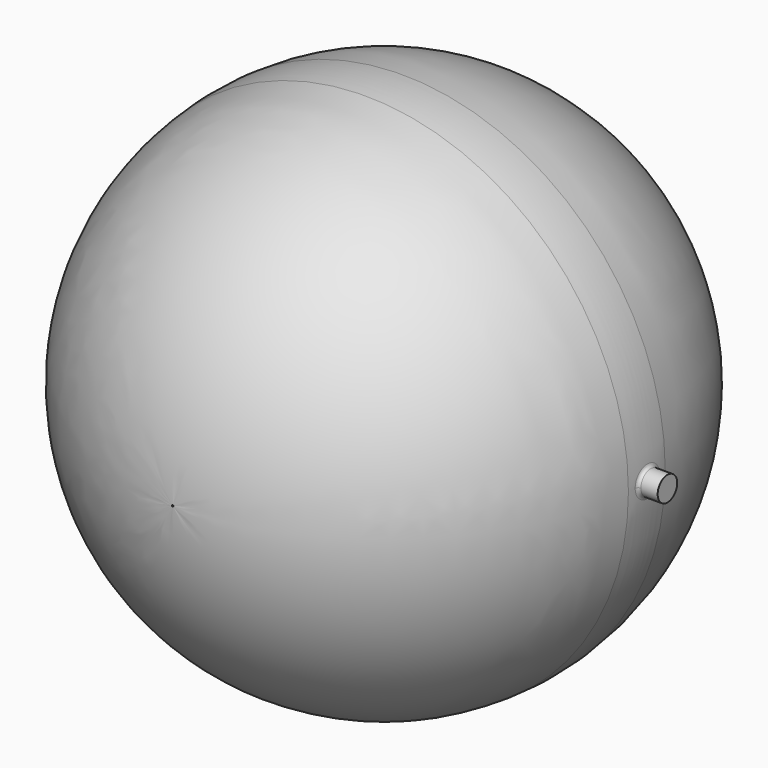
from build123d import *

# Parameters (mm, degrees)
F2_R          = 6.858
F3_DEPTH      = 25.4
F7_R          = 9.525
F8_DEPTH      = 15.24
F8_DEPTH_BACK = 3.556
F9_R          = 2.54


with BuildPart() as f1:
    # F0 (on Top) → F1 (revolve)
    with BuildSketch(Plane.XY):
        with BuildLine():
            Line((0, 218.439255), (0, 205.74))
            ThreePointArc((0, 205.74), (4.486677, 205.691073), (8.971221, 205.544313))
            Line((8.971221, 205.544313), (8.971221, 218.439255))
            Line((8.971221, 218.439255), (0, 218.439255))
        make_face()
        with BuildLine():
            ThreePointArc((203.2, 0), (143.877341, -143.490594), (0.546942, -203.199264))
            Line((0.546942, -203.199264), (0.553779, -205.739255))
            ThreePointArc((0.553779, -205.739255), (139.195875, -151.50398), (204.956133, -17.942442))
            ThreePointArc((204.956133, -17.942442), (205.74, 0), (204.956133, 17.942442))
            ThreePointArc((204.956133, 17.942442), (142.266805, 148.624035), (8.971221, 205.544313))
            ThreePointArc((8.971221, 205.544313), (4.486677, 205.691073), (0, 205.74))
            Line((0, 205.74), (0, 203.2))
            ThreePointArc((0, 203.2), (143.684098, 143.684098), (203.2, 0))
        make_face()
    revolve(axis=Axis((0, 63.5, 0), (0, 1, 0)))

    # F2 (on face) → F3 (cut)
    with BuildSketch(Plane(origin=(0, 218.439255, 0), x_dir=(-1, 0, 0), z_dir=(0, 1, 0))):
        Circle(F2_R)
    extrude(amount=-F3_DEPTH, mode=Mode.SUBTRACT)

    # F7 (on face) → F8 (join, two sides)
    with BuildSketch(Plane.YZ.offset(205.739814)) as f8_sk:
        Circle(F7_R)
    extrude(amount=F8_DEPTH)
    extrude(f8_sk.sketch, amount=-F8_DEPTH_BACK)

    # F9
    f9_edges = [f1.edges().sort_by_distance(p)[0] for p in [
        (205.519396, 0, 9.525),
        (205.519396, 0, -9.525),
    ]]
    fillet(f9_edges, radius=F9_R)


solid = f1.part
